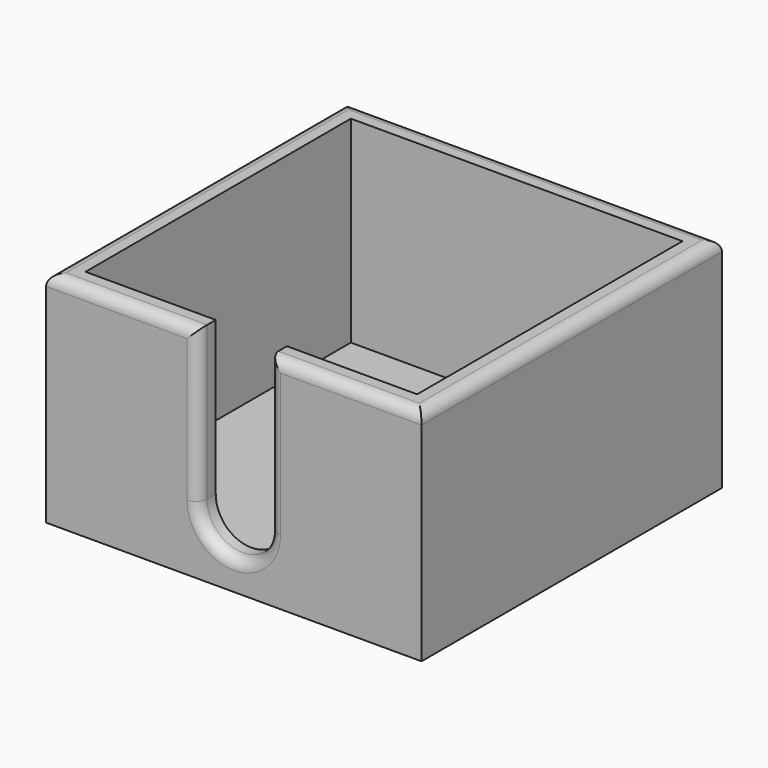
from build123d import *

# Parameters (mm, degrees)
F0_W     = 85.7
F0_H     = 85.7
F0_W_2   = 75.7
F0_H_2   = 75.7
F1_DEPTH = 50
F2_DEPTH = 5
F4_DEPTH = 20
F5_R     = 2.54


with BuildPart() as f1:
    # F0 (on Top) → F1 (new body)
    with BuildSketch(Plane.XY):
        Rectangle(F0_W, F0_H)
        Rectangle(F0_W_2, F0_H_2, mode=Mode.SUBTRACT)
    extrude(amount=F1_DEPTH)

    # F0 (on Top) → F2 (join)
    with BuildSketch(Plane.XY):
        Rectangle(F0_W_2, F0_H_2)
    extrude(amount=F2_DEPTH)

    # F3 (on face) → F4 (cut)
    with BuildSketch(Plane.XZ.offset(42.85)):
        with BuildLine():
            ThreePointArc((-8.123884, 15), (0, 6.876116), (8.123884, 15))
            Line((8.123884, 15), (-8.123884, 15))
        make_face()
        with BuildLine():
            Line((-8.123884, 15), (8.123884, 15))
            ThreePointArc((8.123884, 15), (0, 23.123884), (-8.123884, 15))
        make_face()
        with BuildLine():
            Line((8.123884, 15), (8.123884, 50))
            Line((8.123884, 50), (-8.123884, 50))
            Line((-8.123884, 50), (-8.123884, 15))
            ThreePointArc((-8.123884, 15), (0, 23.123884), (8.123884, 15))
        make_face()
    extrude(amount=-F4_DEPTH, mode=Mode.SUBTRACT)

    # F5
    f5_edges = [f1.edges().sort_by_distance(p)[0] for p in [
        (0, -42.85, 6.876116),
        (8.123884, -42.85, 32.5),
        (25.486942, -42.85, 50),
        (-25.486942, -42.85, 50),
        (42.85, 0, 50),
        (0, 42.85, 50),
        (-42.85, 0, 50),
        (-8.123884, -42.85, 32.5),
    ]]
    fillet(f5_edges, radius=F5_R)


solid = f1.part
